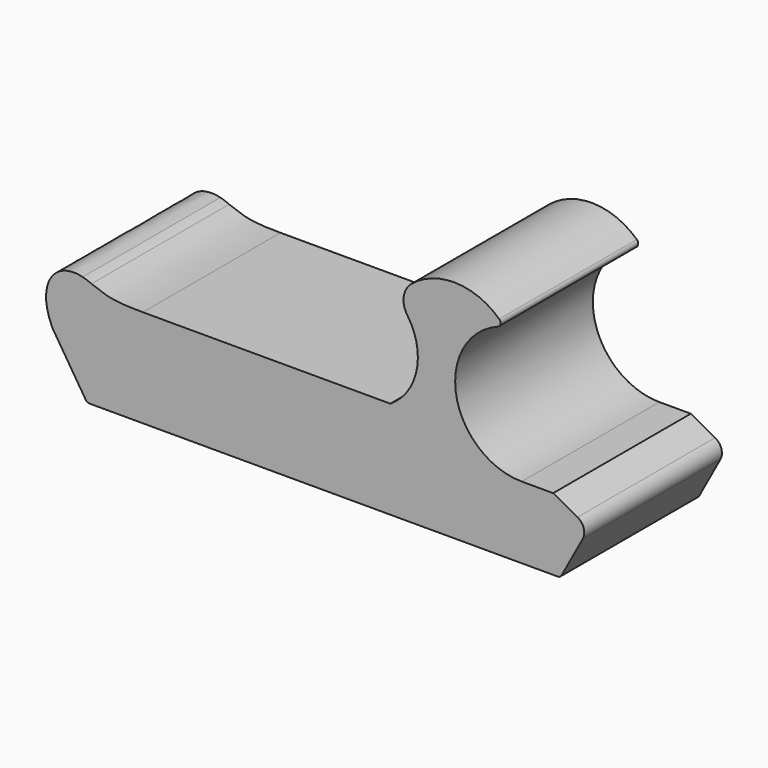
from build123d import *

# Parameters (mm, degrees)
F1_DEPTH = 40


with BuildPart() as f1:
    # F0 (on Front) → F1 (new body)
    with BuildSketch(Plane.XZ):
        with BuildLine():
            Line((-59.017507, -22.725231), (49.838504, -22.725231))
            ThreePointArc((49.838504, -22.725231), (50.349681, -22.584706), (50.717192, -22.202627))
            Line((50.717192, -22.202627), (55.638019, -13.145426))
            ThreePointArc((55.638019, -13.145426), (55.878643, -10.861969), (54.434142, -9.077173))
            Line((54.434142, -9.077173), (48.772091, -6.00095))
            Line((48.772091, -6.00095), (41.457169, -6.00095))
            ThreePointArc((41.457169, -6.00095), (26.256921, 6.637982), (35.91019, 23.889201))
            ThreePointArc((35.91019, 23.889201), (36.53366, 24.635146), (36.228738, 25.558277))
            ThreePointArc((36.228738, 25.558277), (26.107991, 29.656567), (15.792472, 26.076684))
            ThreePointArc((15.792472, 26.076684), (14.033782, 22.903784), (14.883241, 19.376929))
            ThreePointArc((14.883241, 19.376929), (17.052346, 8.841032), (10.924843, 0))
            Line((10.924843, 0), (0, 0))
            Line((0, 0), (-46.615448, 0))
            Line((-46.615448, 0), (-55.363879, 0))
            add(Edge.make_bspline(
                [(-58.547411, 1.944248), (-57.521384, 1.477328), (-56.454735, 0.835224), (-55.363879, 0)],
                knots=[14.022857, 14.022857, 14.022857, 14.022857, 15.855952, 15.855952, 15.855952, 15.855952], degree=3))
            add(Edge.make_bspline(
                [(-60.591155, 2.662373), (-59.80788, 2.405041), (-59.141956, 2.165546), (-58.547411, 1.944248)],
                knots=[0, 0, 0, 0, 2.106452, 2.106452, 2.106452, 2.106452], degree=3))
            add(Edge.make_bspline(
                [(-67.614264, -10.06674), (-71.487593, -1.960097), (-67.297332, 4.303403), (-60.591155, 2.662373)],
                knots=[0, 0, 0, 0, 12.768635, 12.768635, 12.768635, 12.768635], degree=3))
            Line((-67.614264, -10.06674), (-59.861406, -22.261732))
            ThreePointArc((-59.861406, -22.261732), (-59.49891, -22.60173), (-59.017507, -22.725231))
        make_face()
        with BuildLine():
            add(Edge.make_bspline(
                [(-60.591155, 2.662373), (-59.932429, 2.501179), (-59.249429, 2.263719), (-58.547411, 1.944248)],
                knots=[12.768635, 12.768635, 12.768635, 12.768635, 14.022857, 14.022857, 14.022857, 14.022857], degree=3))
            add(Edge.make_bspline(
                [(-60.591155, 2.662373), (-59.80788, 2.405041), (-59.141956, 2.165546), (-58.547411, 1.944248)],
                knots=[0, 0, 0, 0, 2.106452, 2.106452, 2.106452, 2.106452], degree=3))
        make_face()
        with BuildLine():
            add(Edge.make_bspline(
                [(-58.547411, 1.944248), (-55.126379, 0.670892), (-54.068588, 0), (-46.615448, 0)],
                knots=[2.106452, 2.106452, 2.106452, 2.106452, 14.227039, 14.227039, 14.227039, 14.227039], degree=3))
            add(Edge.make_bspline(
                [(-58.547411, 1.944248), (-57.521384, 1.477328), (-56.454735, 0.835224), (-55.363879, 0)],
                knots=[14.022857, 14.022857, 14.022857, 14.022857, 15.855952, 15.855952, 15.855952, 15.855952], degree=3))
            Line((-55.363879, 0), (-46.615448, 0))
        make_face()
    extrude(amount=F1_DEPTH)


solid = f1.part
